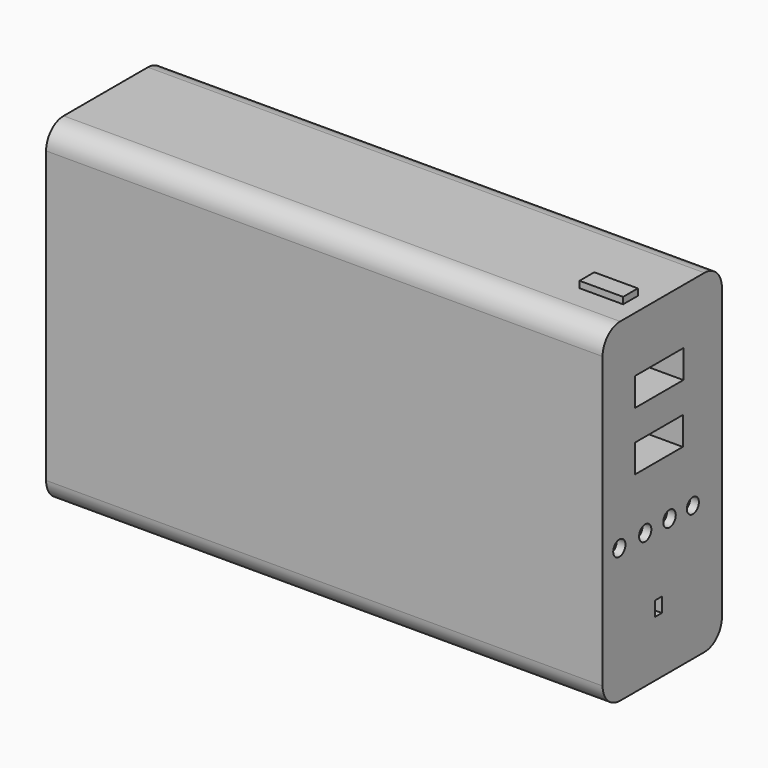
from build123d import *

# Parameters (mm, degrees)
F0_W      = 127
F0_H      = 76.2
F1_DEPTH  = 34.036
F2_R      = 5
F3_W      = 13.8
F3_H      = 6.427399
F4_DEPTH  = 16.44
F5_W      = 13.640474
F5_H      = 6.40964
F6_DEPTH  = 16.44
F7_R      = 1.750354
F8_DEPTH  = 2
F9_R      = 1.747334
F10_DEPTH = 2
F11_R     = 1.782864
F12_DEPTH = 2
F13_R     = 1.715202
F14_DEPTH = 2
F15_W     = 1.989198
F15_H     = 3.315331
F16_DEPTH = 2
F17_W     = 9.945992
F17_H     = 4.199421
F18_DEPTH = 1.5


with BuildPart() as f1:
    # F0 (on Front) → F1 (new body)
    with BuildSketch(Plane.XZ):
        Rectangle(F0_W, F0_H)
    extrude(amount=F1_DEPTH)

    # F2
    f2_edges = [f1.edges().sort_by_distance(p)[0] for p in [
        (0, -34.036, 38.1),
        (0, 0, 38.1),
        (0, -34.036, -38.1),
        (0, 0, -38.1),
    ]]
    fillet(f2_edges, radius=F2_R)

    # F3 (on face) → F4 (cut)
    with BuildSketch(Plane.YZ.offset(63.5)):
        with Locations((-17.902091, 22.212722)):
            Rectangle(F3_W, F3_H)
    extrude(amount=-F4_DEPTH, mode=Mode.SUBTRACT)

    # F5 (on face) → F6 (cut)
    with BuildSketch(Plane.YZ.offset(63.5)):
        with Locations((-17.981854, 8.840884)):
            Rectangle(F5_W, F5_H)
    extrude(amount=-F6_DEPTH, mode=Mode.SUBTRACT)

    # F7 (on face) → F8 (cut)
    with BuildSketch(Plane.YZ.offset(63.5)):
        with Locations((-29.259426, -7.352235)):
            Circle(F7_R)
    extrude(amount=-F8_DEPTH, mode=Mode.SUBTRACT)

    # F9 (on face) → F10 (cut)
    with BuildSketch(Plane.YZ.offset(63.5)):
        with Locations((-21.881189, -7.29373)):
            Circle(F9_R)
    extrude(amount=-F10_DEPTH, mode=Mode.SUBTRACT)

    # F11 (on face) → F12 (cut)
    with BuildSketch(Plane.YZ.offset(63.5)):
        with Locations((-14.947511, -7.233127)):
            Circle(F11_R)
    extrude(amount=-F12_DEPTH, mode=Mode.SUBTRACT)

    # F13 (on face) → F14 (cut)
    with BuildSketch(Plane.YZ.offset(63.5)):
        with Locations((-8.288329, -7.326883)):
            Circle(F13_R)
    extrude(amount=-F14_DEPTH, mode=Mode.SUBTRACT)

    # F15 (on face) → F16 (cut)
    with BuildSketch(Plane.YZ.offset(63.5)):
        with Locations((-18.123812, -23.649363)):
            Rectangle(F15_W, F15_H)
    extrude(amount=-F16_DEPTH, mode=Mode.SUBTRACT)

    # F17 (on face) → F18 (join)
    with BuildSketch(Plane.XY.offset(38.1)):
        with Locations((54.813484, -21.439144)):
            Rectangle(F17_W, F17_H)
    extrude(amount=F18_DEPTH)


solid = f1.part
